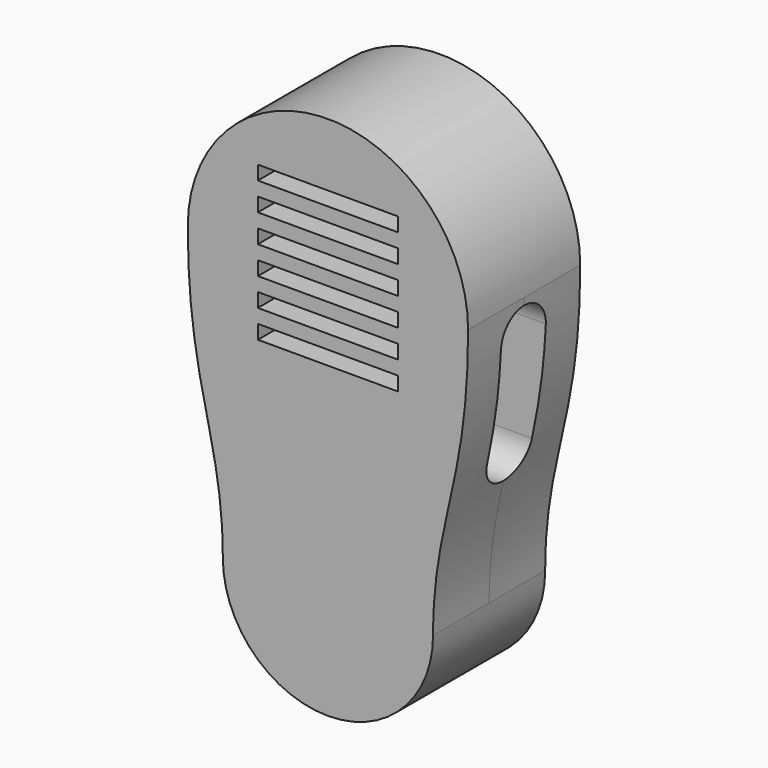
from build123d import *

# Parameters (mm, degrees)
PAD_DEPTH           = 10
SKETCH001_W         = 20
SKETCH001_H         = 2
POCKET_DEPTH        = 4
LINEARPATTERN_COUNT = 6
LINEARPATTERN_PITCH = 4
POCKET001_DEPTH     = 50
SKETCH003_R         = 1.75
POCKET002_DEPTH     = 10


with BuildPart() as part:
    # Sketch → Pad (new body, symmetric)
    with BuildSketch(Plane.XZ):
        with BuildLine():
            ThreePointArc((20, 0), (0, 20), (-20, 0))
            add(Edge.make_bspline(
                [(-20, 0), (-20, -20), (-15, -25), (-15, -40)],
                knots=[0, 0, 0, 0, 1, 1, 1, 1], degree=3))
            ThreePointArc((-15, -40), (0, -55), (15, -40))
            add(Edge.make_bspline(
                [(20, 0), (20, -20), (15, -25), (15, -40)],
                knots=[0, 0, 0, 0, 1, 1, 1, 1], degree=3))
        make_face()
    extrude(amount=PAD_DEPTH, both=True)

    # Sketch001 (on Face6 of Pad) → Pocket (cut)
    with BuildSketch(Plane.XZ.offset(10)):
        with Locations((0, 10)):
            Rectangle(SKETCH001_W, SKETCH001_H)
    pocket = extrude(amount=-POCKET_DEPTH, mode=Mode.SUBTRACT)

    # LinearPattern: Pocket ×6
    with Locations(*[(0, 0, -i * LINEARPATTERN_PITCH) for i in range(1, LINEARPATTERN_COUNT)]):
        add(pocket, mode=Mode.SUBTRACT)

    # Sketch002 → Pocket001 (cut, symmetric)
    with BuildSketch(Plane.YZ):
        with BuildLine():
            ThreePointArc((4, -5), (0, -1), (-4, -5))
            Line((-4, -5), (-4, -20))
            ThreePointArc((-4, -20), (0, -24), (4, -20))
            Line((4, -5), (4, -20))
        make_face()
    extrude(amount=POCKET001_DEPTH, both=True, mode=Mode.SUBTRACT)

    # Sketch003 → Pocket002 (cut)
    with BuildSketch(Plane.XY.offset(-55)):
        Circle(SKETCH003_R)
    extrude(amount=POCKET002_DEPTH, mode=Mode.SUBTRACT)


solid = part.part
